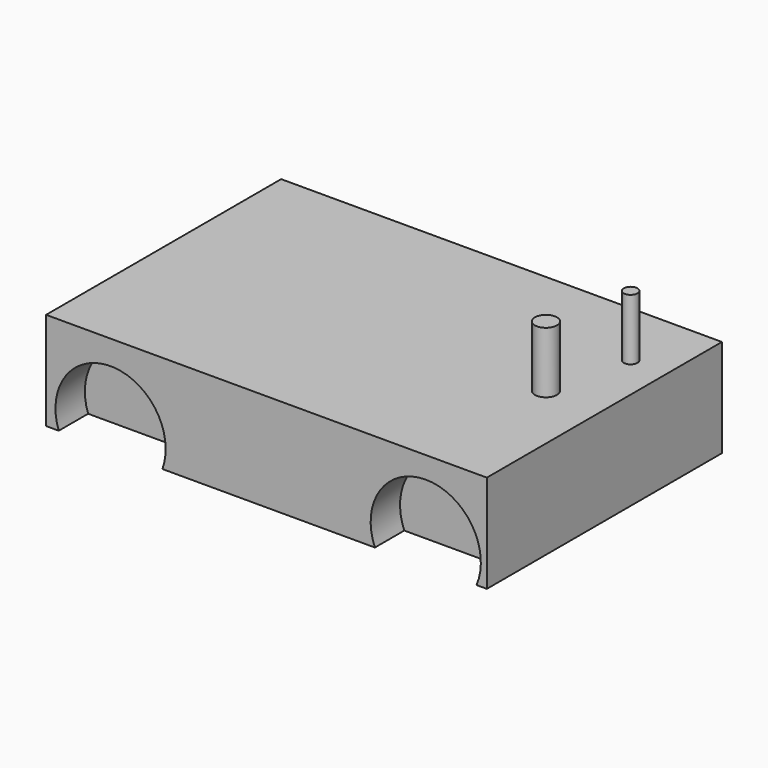
from build123d import *

# Parameters (mm, degrees)
F0_W     = 457.2
F0_H     = 101.6
F1_DEPTH = 304.8
F2_R     = 57.15
F3_DEPTH = 38.1
F4_R     = 7.133851
F4_R_2   = 11.398645
F5_DEPTH = 63.5
F6_DEPTH = 63.5
F7_R     = 18.332449
F8_DEPTH = 38.1


with BuildPart() as f1:
    # F0 (on Front) → F1 (new body)
    with BuildSketch(Plane.XZ):
        Rectangle(F0_W, F0_H)
    extrude(amount=F1_DEPTH)

    # F2 (on face) → F3 (cut)
    with BuildSketch(Plane.XZ.offset(304.8)):
        with Locations((-161.700301, -31.462707)):
            Circle(F2_R)
        with Locations((165.217001, -28.766797)):
            Circle(F2_R)
    extrude(amount=-F3_DEPTH, mode=Mode.SUBTRACT)

    # F4 (on face) → F5 (join)
    with BuildSketch(Plane.XY.offset(50.8)):
        with Locations((191.001311, -71.4375)):
            Circle(F4_R)
        with Locations((170.921057, -156.06603)):
            Circle(F4_R_2)
    extrude(amount=F5_DEPTH)

    # F4 (on face) → F6 (join)
    with BuildSketch(Plane.XY.offset(50.8)):
        with Locations((191.001311, -71.4375)):
            Circle(F4_R)
        with Locations((170.921057, -156.06603)):
            Circle(F4_R_2)
    extrude(amount=F6_DEPTH)

    # F7 (on face) → F8 (cut)
    with BuildSketch(Plane(origin=(-228.6, 0, 0), x_dir=(0, -1, 0), z_dir=(-1, 0, 0))):
        with Locations((152.4, 0)):
            Circle(F7_R)
    extrude(amount=-F8_DEPTH, mode=Mode.SUBTRACT)


solid = f1.part
